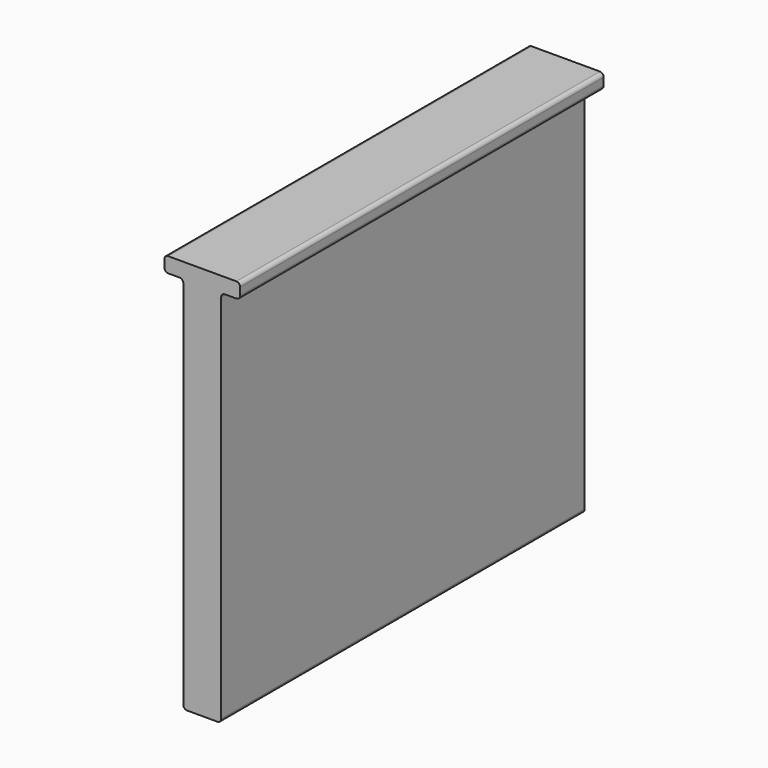
from build123d import *

# Parameters (mm, degrees)
F1_DEPTH = 600


with BuildPart() as f1:
    # F0 (on Front) → F1 (new body)
    with BuildSketch(Plane.XZ):
        with BuildLine():
            Line((-45, 0), (-5, 0))
            ThreePointArc((-5, 0), (-1.464466, 1.464466), (0, 5))
            Line((0, 5), (0, 495))
            ThreePointArc((0, 495), (1.464466, 498.535534), (5, 500))
            Line((5, 500), (20, 500))
            ThreePointArc((20, 500), (23.535534, 501.464466), (25, 505))
            Line((25, 505), (25, 515))
            ThreePointArc((25, 515), (23.535534, 518.535534), (20, 520))
            Line((20, 520), (-70, 520))
            ThreePointArc((-70, 520), (-73.535534, 518.535534), (-75, 515))
            Line((-75, 515), (-75, 505))
            ThreePointArc((-75, 505), (-73.535534, 501.464466), (-70, 500))
            Line((-70, 500), (-55, 500))
            ThreePointArc((-55, 500), (-51.464466, 498.535534), (-50, 495))
            Line((-50, 495), (-50, 5))
            ThreePointArc((-50, 5), (-48.535534, 1.464466), (-45, 0))
        make_face()
    extrude(amount=F1_DEPTH)


solid = f1.part
